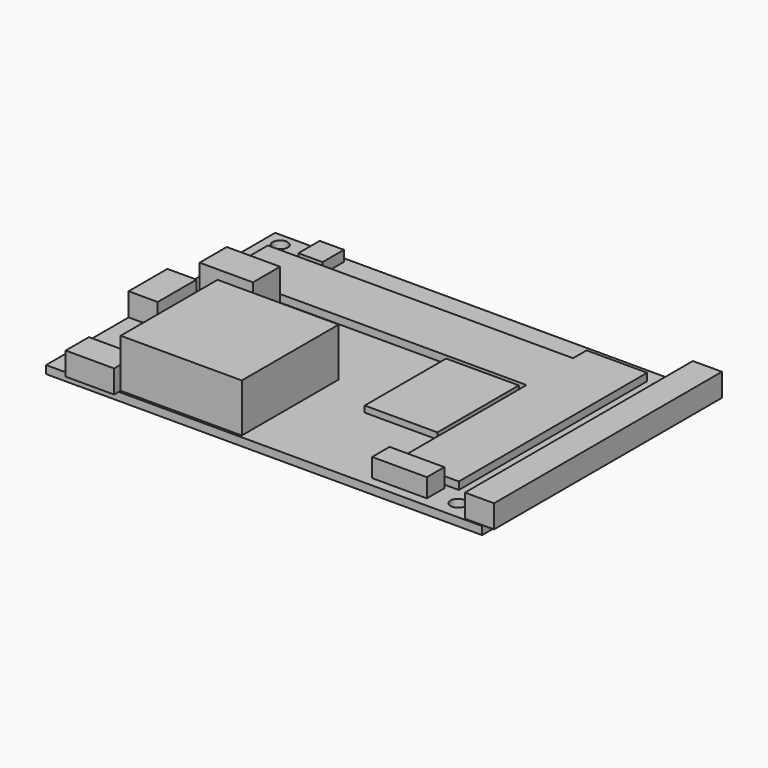
from build123d import *

# Parameters (mm, degrees)
F0_W      = 90
F0_H      = 59.1
F0_R      = 1.55
F1_DEPTH  = 1.65
F2_W      = 63
F2_H      = 12
F3_DEPTH  = 3.2
F4_W      = 5
F4_H      = 5.5
F5_DEPTH  = 2.2
F6_W      = 2.23
F6_H      = 58.8
F6_W_2    = 3.77
F7_DEPTH  = 4.75
F8_W      = 15
F8_H      = 21
F9_DEPTH  = 1.3
F10_W     = 11.3
F10_H     = 4.5
F11_DEPTH = 3.85
F12_W     = 11
F12_H     = 7
F13_DEPTH = 7.5
F14_W     = 25
F14_H     = 25
F15_DEPTH = 10
F16_W     = 6
F16_H     = 10
F16_W_2   = 10
F16_H_2   = 1.2
F17_DEPTH = 4.75


with BuildPart() as f1:
    # F0 (on Top) → F1 (new body)
    with BuildSketch(Plane.XY):
        with Locations((-0.775745, -0.230454)):
            Rectangle(F0_W, F0_H)
        with Locations((-43.275745, -24.680454)):
            Circle(F0_R, mode=Mode.SUBTRACT)
        with Locations((36.224255, -25.980454)):
            Circle(F0_R, mode=Mode.SUBTRACT)
        with Locations((-42.525745, 26.569546)):
            Circle(F0_R, mode=Mode.SUBTRACT)
        with Locations((36.224255, 26.069546)):
            Circle(F0_R, mode=Mode.SUBTRACT)
    extrude(amount=F1_DEPTH)

    # F2 (on Top) → F3 (join)
    with BuildSketch(Plane.XY):
        Polygon((20.924255, -22.280454), (33.424255, -22.280454), (33.424255, 26.319546), (20.924255, 26.319546), (20.924255, 22.819546), (20.924255, 10.819546), align=None)
        with Locations((-10.575745, 16.819546)):
            Rectangle(F2_W, F2_H)
    extrude(amount=F3_DEPTH)

    # F4 (on face) → F5 (join)
    with BuildSketch(Plane.XY.offset(1.65)):
        with Locations((-33.275745, 25.569546)):
            Rectangle(F4_W, F4_H)
    extrude(amount=F5_DEPTH)

    # F6 (on face) → F7 (join)
    with BuildSketch(Plane.XY.offset(1.65)):
        with Locations((45.339255, -0.080454)):
            Rectangle(F6_W, F6_H)
        with Locations((42.339255, -0.080454)):
            Rectangle(F6_W_2, F6_H)
    extrude(amount=F7_DEPTH)

    # F8 (on face) → F9 (join)
    with BuildSketch(Plane.XY.offset(1.65)):
        with Locations((12.224255, -0.180454)):
            Rectangle(F8_W, F8_H)
    extrude(amount=F9_DEPTH)

    # F10 (on face) → F11 (join)
    with BuildSketch(Plane.XY.offset(1.65)):
        with Locations((25.574255, -25.530454)):
            Rectangle(F10_W, F10_H)
    extrude(amount=F11_DEPTH)

    # F12 (on face) → F13 (join)
    with BuildSketch(Plane.XY.offset(1.65)):
        with Locations((-34.275745, 5.836562)):
            Rectangle(F12_W, F12_H)
    extrude(amount=F13_DEPTH)

    # F14 (on face) → F15 (join)
    with BuildSketch(Plane.XY.offset(1.65)):
        with Locations((-18.275745, -16.780454)):
            Rectangle(F14_W, F14_H)
    extrude(amount=F15_DEPTH)

    # F16 (on face) → F17 (join)
    with BuildSketch(Plane.XY.offset(1.65)):
        with Locations((-42.775745, -3.480454)):
            Rectangle(F16_W, F16_H)
        Polygon((-40.775745, -24.980454), (-40.775745, -29.780454), (-30.775745, -29.780454), (-30.775745, -29.280454), (-30.775745, -24.980454), align=None)
        with Locations((-35.775745, -30.380454)):
            Rectangle(F16_W_2, F16_H_2)
    extrude(amount=F17_DEPTH)


solid = f1.part
